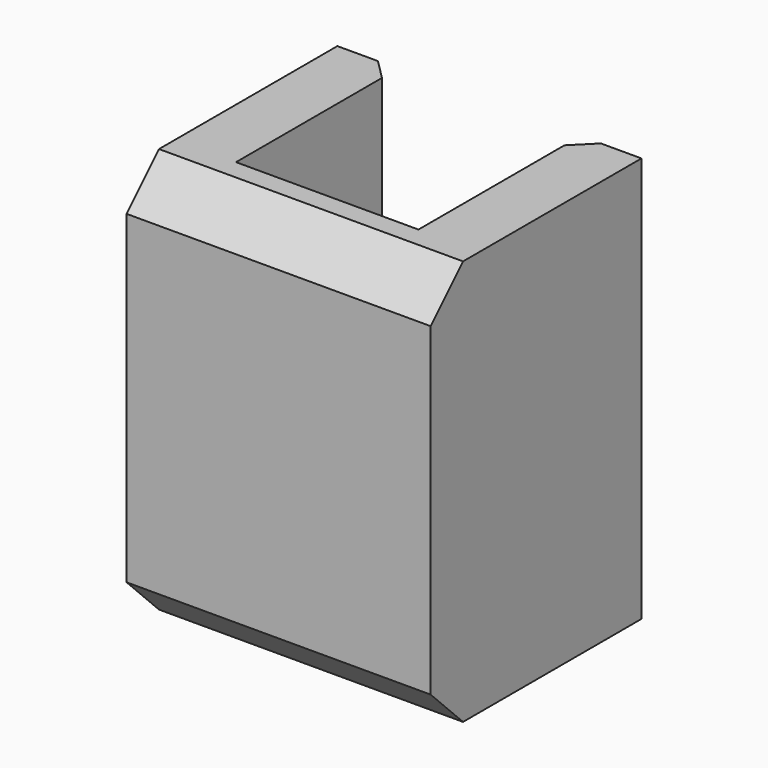
from build123d import *

# Parameters (mm, degrees)
PAD_DEPTH       = 20
CHAMFER_SIZE    = 1
CHAMFER001_SIZE = 2


with BuildPart() as part:
    # Sketch → Pad (new body)
    with BuildSketch(Plane.XY):
        Polygon((-7.5, 5), (-7.5, -8), (7.5, -8), (7.5, 5), (4.5, 5), (4.5, -5), (-4.5, -5), (-4.5, 5), align=None)
    extrude(amount=PAD_DEPTH)

    # Chamfer
    chamfer_edges = [part.edges().sort_by_distance(p)[0] for p in [
        (-4.5, 5, 10),
        (4.5, 5, 10),
    ]]
    chamfer(chamfer_edges, length=CHAMFER_SIZE)

    # Chamfer001
    chamfer001_edges = [part.edges().sort_by_distance(p)[0] for p in [
        (0, -8, 20),
        (0, -8, 0),
    ]]
    chamfer(chamfer001_edges, length=CHAMFER001_SIZE)


solid = part.part
